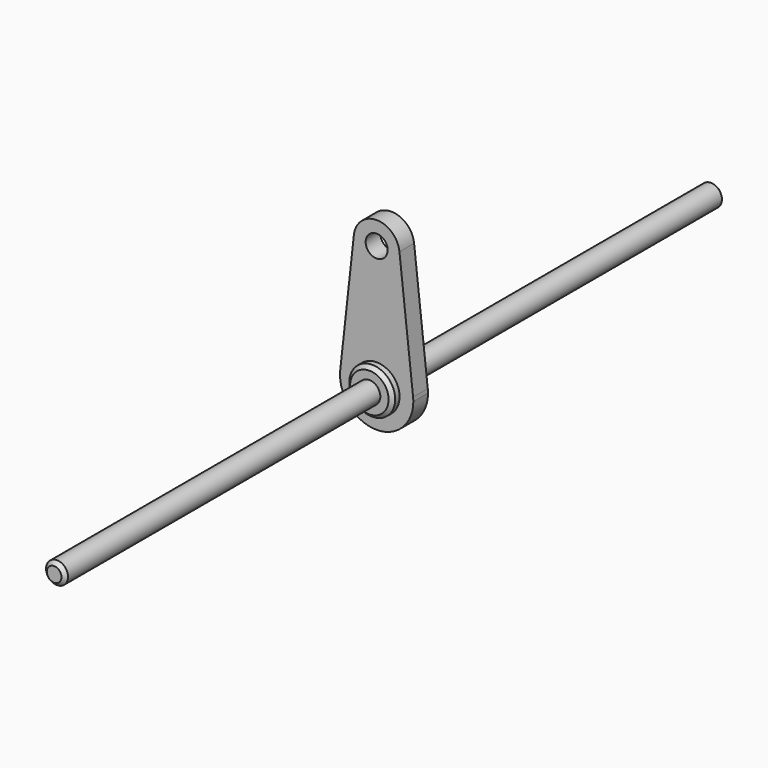
from build123d import *

# Parameters (mm, degrees)
F0_R      = 6
F1_DEPTH  = 450
F2_SIZE   = 2
F4_R      = 12.5
F5_DEPTH  = 10
F6_SIZE   = 2
F8_DEPTH  = 5
F10_D     = 12
F10_DEPTH = 30


with BuildPart() as f1:
    # F0 (on Front) → F1 (new body)
    with BuildSketch(Plane.XZ):
        Circle(F0_R)
    extrude(amount=F1_DEPTH)

    # F2
    f2_edges = [f1.edges().sort_by_distance(p)[0] for p in [
        (-6, -450, 0),
        (-6, 0, 0),
    ]]
    chamfer(f2_edges, length=F2_SIZE)

    # F4 (on offset) → F5 (join, symmetric)
    with BuildSketch(Plane.XZ.offset(225)):
        Circle(F4_R)
    extrude(amount=F5_DEPTH, both=True)

    # F6
    f6_edges = [f1.edges().sort_by_distance(p)[0] for p in [
        (-12.5, -235, 0),
        (-12.5, -215, 0),
    ]]
    chamfer(f6_edges, length=F6_SIZE)

    # F7 (on offset) → F8 (join, symmetric)
    with BuildSketch(Plane.XZ.offset(225)):
        with BuildLine():
            ThreePointArc((19.879044, 2.196272), (1e-06, 20), (-19.879044, 2.196273))
            ThreePointArc((-19.879044, 2.196273), (-1.099801, -19.969738), (20, 0))
            ThreePointArc((20, 0), (19.969738, 1.0998), (19.879044, 2.196272))
        make_face()
        with BuildLine():
            Line((-12.432798, 69.594193), (-19.879044, 2.196273))
            ThreePointArc((-19.879044, 2.196273), (1e-06, 20), (19.879044, 2.196272))
            Line((19.879044, 2.196272), (12.432798, 69.594193))
            ThreePointArc((12.432798, 69.594193), (12.483188, 68.947853), (12.5, 68.29977))
            ThreePointArc((12.5, 68.29977), (-0.648083, 55.816582), (-12.432798, 69.594193))
        make_face()
        with BuildLine():
            ThreePointArc((12.432798, 69.594193), (0, 80.79977), (-12.432798, 69.594193))
            ThreePointArc((-12.432798, 69.594193), (-0.648083, 55.816582), (12.5, 68.29977))
            ThreePointArc((12.5, 68.29977), (12.483188, 68.947853), (12.432798, 69.594193))
        make_face()
    extrude(amount=F8_DEPTH, both=True)

    # F10
    with Locations(Plane.XZ.offset(230)):
        with Locations((0, 68.29977)):
            Hole(F10_D / 2, depth=F10_DEPTH)


solid = f1.part
